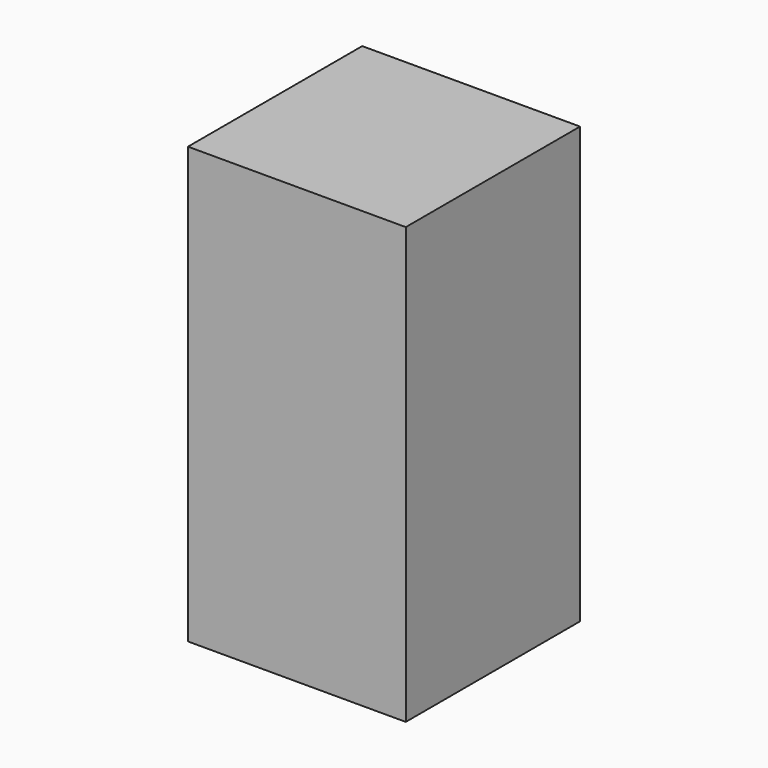
from build123d import *

# Parameters (mm, degrees)
SKETCH_W  = 5
SKETCH_H  = 5
PAD_DEPTH = 10


with BuildPart() as part:
    # Sketch (on XY_Plane of Origin) → Pad (new body)
    with BuildSketch(Plane.XY):
        Rectangle(SKETCH_W, SKETCH_H)
    extrude(amount=PAD_DEPTH)


solid = part.part
